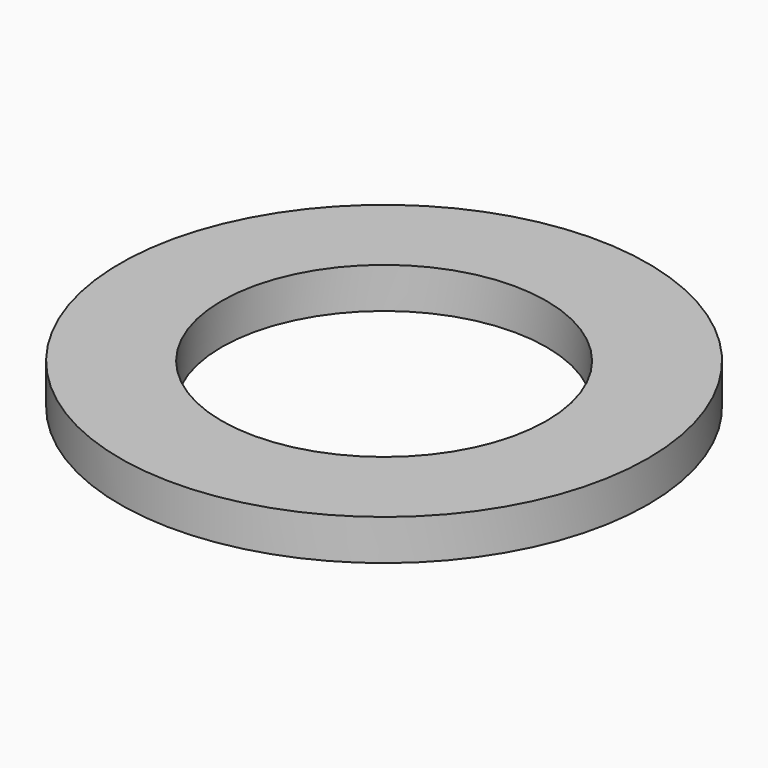
from build123d import *

# Parameters (mm, degrees)
CYLINDER007_R     = 0.4
CYLINDER007_DEPTH = 0.1
CYLINDER006_R     = 0.65
CYLINDER006_DEPTH = 0.1


with BuildPart() as cylinder007:
    # Cylinder007 → Cylinder007 (new body)
    with BuildSketch(Plane.XY.offset(1.62)):
        Circle(CYLINDER007_R)
    extrude(amount=CYLINDER007_DEPTH)


with BuildPart() as cut011:
    # Cylinder006 → Cylinder006 (new body)
    with BuildSketch(Plane.XY.offset(1.62)):
        Circle(CYLINDER006_R)
    extrude(amount=CYLINDER006_DEPTH)

    # Cut011: cut Cylinder007
    add(cylinder007.part, mode=Mode.SUBTRACT)


with BuildPart() as cut011_1:
    # Cut011 placement: moved
    add(cut011.part.moved(Location((16.34, 12.7, 0))))


solid = cut011_1.part
